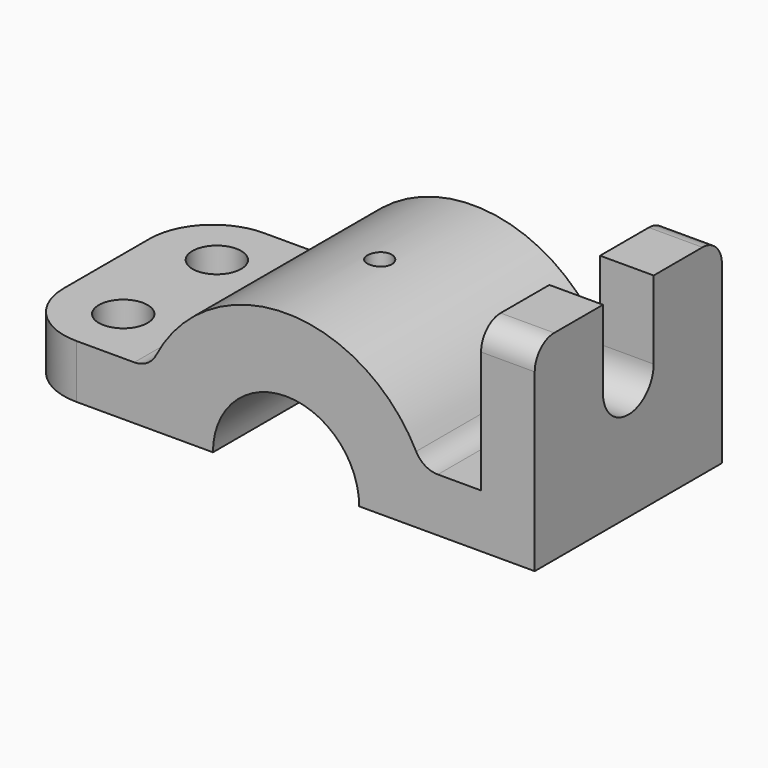
from build123d import *

# Parameters (mm, degrees)
F1_DEPTH      = 24
F2_R          = 13
F3_R          = 5
F4_R          = 5
F4_R_2        = 2.5
F5_DEPTH      = 44.4
F7_DEPTH      = 15.7
F7_DEPTH_BACK = 25


with BuildPart() as f1:
    # F0 (on Front) → F1 (new body, symmetric)
    with BuildSketch(Plane.XZ):
        with BuildLine():
            ThreePointArc((-15, 0), (0, 15), (15, 0))
            Line((15, 0), (51, 0))
            Line((51, 0), (51, 41))
            Line((51, 41), (40, 41))
            Line((40, 41), (40, 11))
            Line((40, 11), (27.9105714739, 11))
            ThreePointArc((27.9105714739, 11), (0, 30), (-27.9105714739, 11))
            Line((-27.9105714739, 11), (-56, 11))
            Line((-56, 11), (-56, 0))
            Line((-56, 0), (-15, 0))
        make_face()
    extrude(amount=F1_DEPTH, both=True)

    # F2
    f2_edges = [f1.edges().sort_by_distance(p)[0] for p in [
        (-56, -24, 5.5),
        (-56, 24, 5.5),
    ]]
    fillet(f2_edges, radius=F2_R)

    # F3
    f3_edges = [f1.edges().sort_by_distance(p)[0] for p in [
        (45.5, -24, 41),
        (45.5, 24, 41),
        (-27.910571, 0, 11),
        (27.910571, 0, 11),
    ]]
    fillet(f3_edges, radius=F3_R)

    # F4 (on face) → F5 (cut, symmetric)
    with BuildSketch(Plane.XY.offset(11)):
        with Locations((-43, 12)):
            Circle(F4_R)
        with Locations((-43, -12)):
            Circle(F4_R)
        Circle(F4_R_2)
    extrude(amount=F5_DEPTH, both=True, mode=Mode.SUBTRACT)

    # F6 (on face) → F7 (cut, two sides)
    with BuildSketch(Plane.YZ.offset(51)) as f7_sk:
        with BuildLine():
            Line((6.5, 41), (-6.5, 41))
            Line((-6.5, 41), (-6.5, 25))
            ThreePointArc((-6.5, 25), (0, 18.5), (6.5, 25))
            Line((6.5, 25), (6.5, 41))
        make_face()
    extrude(amount=-F7_DEPTH, mode=Mode.SUBTRACT)
    extrude(f7_sk.sketch, amount=F7_DEPTH_BACK, mode=Mode.SUBTRACT)


solid = f1.part
